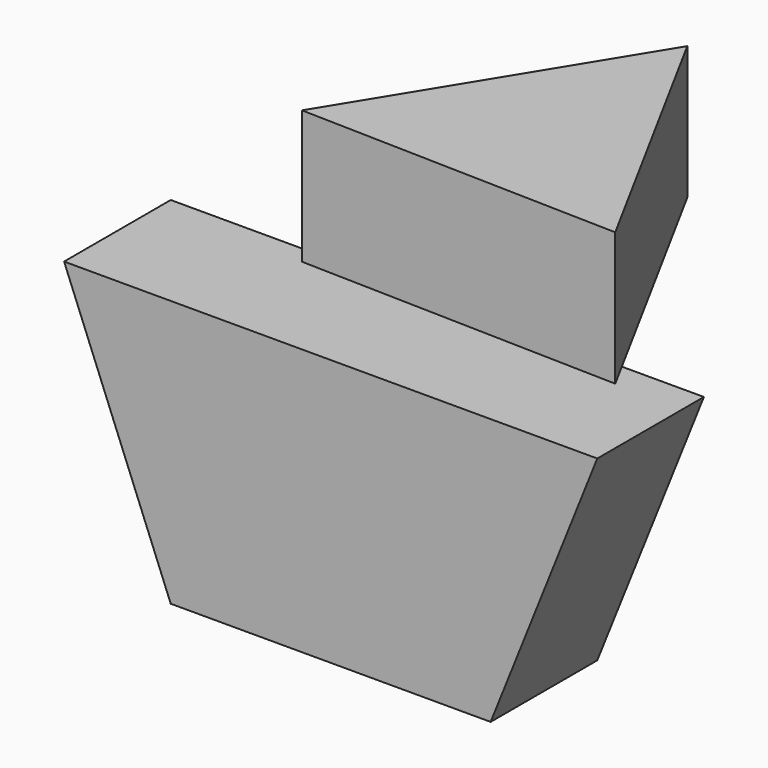
from build123d import *

# Parameters (mm, degrees)
F2_DEPTH = 25
F3_DEPTH = 25


with BuildPart() as f2:
    # F0 (on Top) → F2 (new body)
    with BuildSketch(Plane.XY):
        Polygon((5.257778, 14.541994), (-26.071454, -36.629084), (33.908615, -38.175456), align=None)
    extrude(amount=F2_DEPTH)


with BuildPart() as f3:
    # F1 (on Front) → F3 (new body)
    with BuildSketch(Plane.XZ):
        Polygon((-80, -22.226929), (-60, -72.226929), (0, -72.226929), (20, -22.226929), align=None)
    extrude(amount=F3_DEPTH)


solid = Compound([f2.part, f3.part])
